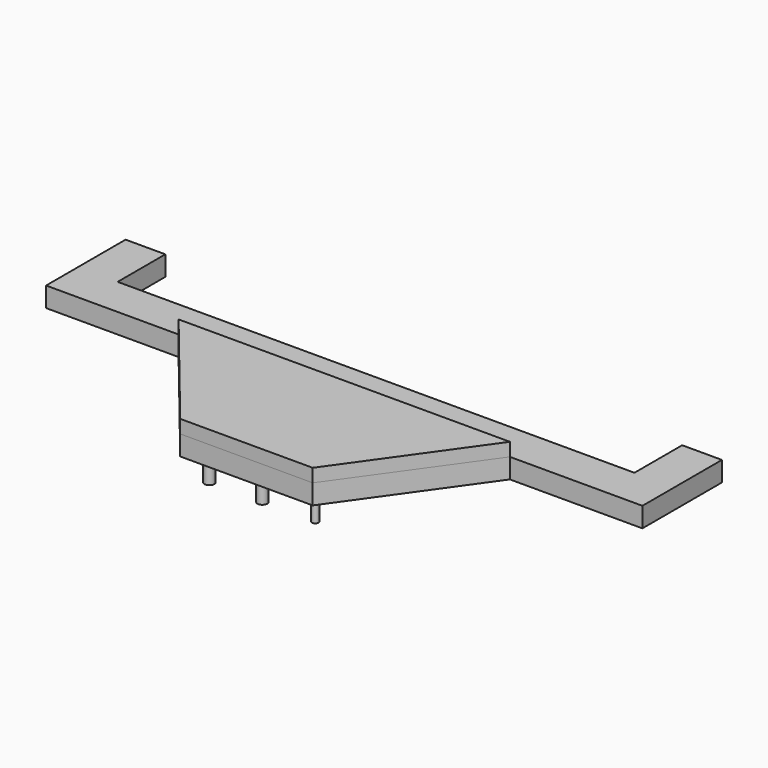
from build123d import *

# Parameters (mm, degrees)
F1_DEPTH = 3
F3_DEPTH = 2
F4_R     = 0.75
F4_R_2   = 0.5
F5_DEPTH = 4


with BuildPart() as f1:
    # F0 (on Top) → F1 (new body)
    with BuildSketch(Plane.XY):
        Polygon((-45.999706, 15), (-45.999706, 0), (-25.999706, 0), (24.000294, 0), (44.000294, 0), (44.000294, 15), (38.000294, 15), (38.000294, 6), (-39.999706, 6), (-39.999706, 15), align=None)
        Polygon((24.000294, 0), (-25.999706, 0), (-10, -19.698184), (10, -19.698184), align=None)
    extrude(amount=F1_DEPTH)


with BuildPart() as f3:
    # F2 (on face) → F3 (new body)
    with BuildSketch(Plane.XY.offset(3)):
        Polygon((24.000294, 0), (-25.999706, 0), (-10, -19.698184), (10, -19.698184), align=None)
    extrude(amount=F3_DEPTH)


with BuildPart() as f5:
    # F4 (on face) → F5 (new body)
    with BuildSketch(Plane(origin=(0, 0, 0), x_dir=(1, 0, 0), z_dir=(0, 0, -1))):
        with Locations((0, 16.698184)):
            Circle(F4_R)
        with Locations((8, 16.698184)):
            Circle(F4_R_2)
        with Locations((-8, 16.698184)):
            Circle(F4_R)
    extrude(amount=F5_DEPTH)


solid = Compound([f1.part, f3.part, f5.part])
